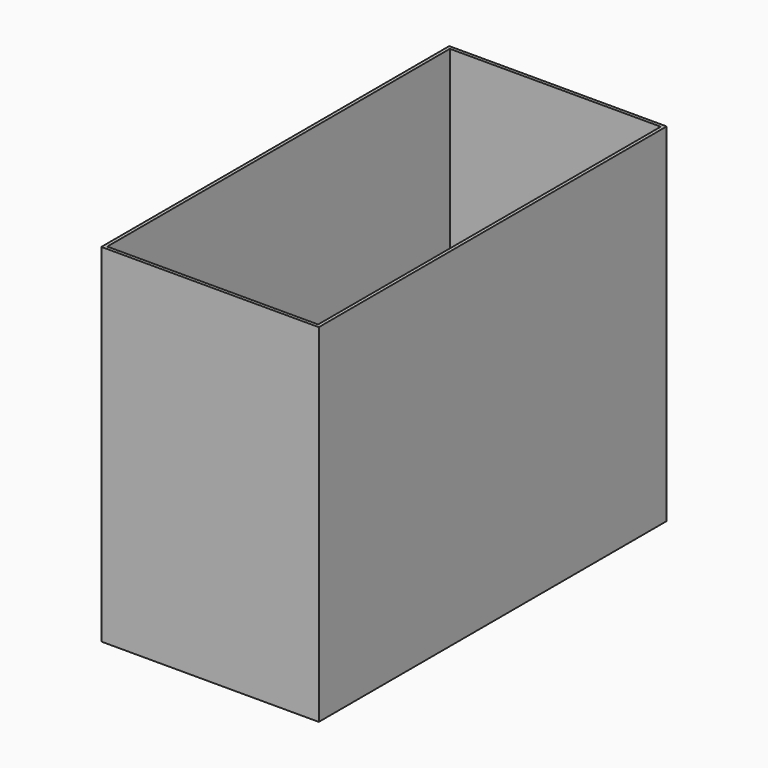
from build123d import *

# Parameters (mm, degrees)
F0_W     = 1200
F0_H     = 2400
F0_W_2   = 1164
F0_H_2   = 2364
F1_DEPTH = 18
F2_DEPTH = 1900


with BuildPart() as f1:
    # F0 (on Top) → F1 (new body)
    with BuildSketch(Plane.XY):
        with Locations((21.49932459, 485.1747957596)):
            Rectangle(F0_W, F0_H)
        with Locations((21.49932459, 485.1747957596)):
            Rectangle(F0_W_2, F0_H_2, mode=Mode.SUBTRACT)
        with Locations((21.49932459, 485.1747957596)):
            Rectangle(F0_W_2, F0_H_2)
    extrude(amount=-F1_DEPTH)

    # F0 (on Top) → F2 (join)
    with BuildSketch(Plane.XY):
        with Locations((21.49932459, 485.1747957596)):
            Rectangle(F0_W, F0_H)
        with Locations((21.49932459, 485.1747957596)):
            Rectangle(F0_W_2, F0_H_2, mode=Mode.SUBTRACT)
    extrude(amount=F2_DEPTH)


solid = f1.part
